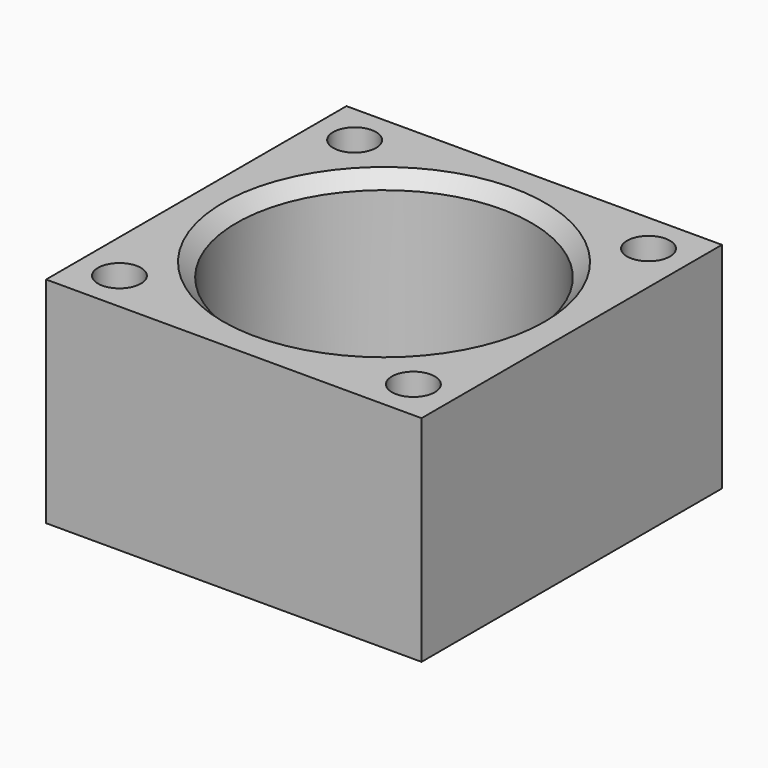
from build123d import *

# Parameters (mm, degrees)
SKETCH_W        = 28
SKETCH_H        = 28
SKETCH_R        = 2
PAD_DEPTH       = 2
SKETCH001_W     = 28
SKETCH001_H     = 28
SKETCH001_R     = 9
SKETCH001_R_2   = 2
PAD001_DEPTH    = 2
SKETCH003_W     = 28
SKETCH003_H     = 28
SKETCH003_R     = 1.6
SKETCH003_R_2   = 11
PAD002_DEPTH    = 12
CHAMFER_SIZE    = 1
CHAMFER001_SIZE = 0.4
CHAMFER002_SIZE = 1


with BuildPart() as part:
    # Sketch → Pad (new body)
    with BuildSketch(Plane.XY):
        Rectangle(SKETCH_W, SKETCH_H)
        Circle(SKETCH_R, mode=Mode.SUBTRACT)
        with Locations((10.960155, 10.960155)):
            Circle(SKETCH_R, mode=Mode.SUBTRACT)
        with Locations((-10.960155, 10.960155)):
            Circle(SKETCH_R, mode=Mode.SUBTRACT)
        with Locations((-10.960155, -10.960155)):
            Circle(SKETCH_R, mode=Mode.SUBTRACT)
        with Locations((10.960155, -10.960155)):
            Circle(SKETCH_R, mode=Mode.SUBTRACT)
    extrude(amount=PAD_DEPTH)

    # Sketch001 (on Face11 of Pad) → Pad001 (join)
    with BuildSketch(Plane.XY.offset(2)):
        Rectangle(SKETCH001_W, SKETCH001_H)
        Circle(SKETCH001_R, mode=Mode.SUBTRACT)
        with Locations((-10.960155, 10.960155)):
            Circle(SKETCH001_R_2, mode=Mode.SUBTRACT)
        with Locations((-10.960155, -10.960155)):
            Circle(SKETCH001_R_2, mode=Mode.SUBTRACT)
        with Locations((10.960155, -10.960155)):
            Circle(SKETCH001_R_2, mode=Mode.SUBTRACT)
        with Locations((10.960155, 10.960155)):
            Circle(SKETCH001_R_2, mode=Mode.SUBTRACT)
    extrude(amount=PAD001_DEPTH)

    # Sketch003 (on Face14 of Pad001) → Pad002 (join)
    with BuildSketch(Plane.XY.offset(4)):
        Rectangle(SKETCH003_W, SKETCH003_H)
        with Locations((-10.960155, 10.960155)):
            Circle(SKETCH003_R, mode=Mode.SUBTRACT)
        with Locations((-10.960155, -10.960155)):
            Circle(SKETCH003_R, mode=Mode.SUBTRACT)
        with Locations((10.960155, -10.960155)):
            Circle(SKETCH003_R, mode=Mode.SUBTRACT)
        with Locations((10.960155, 10.960155)):
            Circle(SKETCH003_R, mode=Mode.SUBTRACT)
        Circle(SKETCH003_R_2, mode=Mode.SUBTRACT)
    extrude(amount=PAD002_DEPTH)

    # Chamfer
    chamfer_edges = [part.edges().sort_by_distance(p)[0] for p in [
        (-11, 0, 16),
    ]]
    chamfer(chamfer_edges, length=CHAMFER_SIZE)

    # Chamfer001
    chamfer001_edges = [part.edges().sort_by_distance(p)[0] for p in [
        (-9, 0, 4),
    ]]
    chamfer(chamfer001_edges, length=CHAMFER001_SIZE)

    # Chamfer002
    chamfer002_edges = [part.edges().sort_by_distance(p)[0] for p in [
        (-2, 0, 2),
    ]]
    chamfer(chamfer002_edges, length=CHAMFER002_SIZE)


solid = part.part
